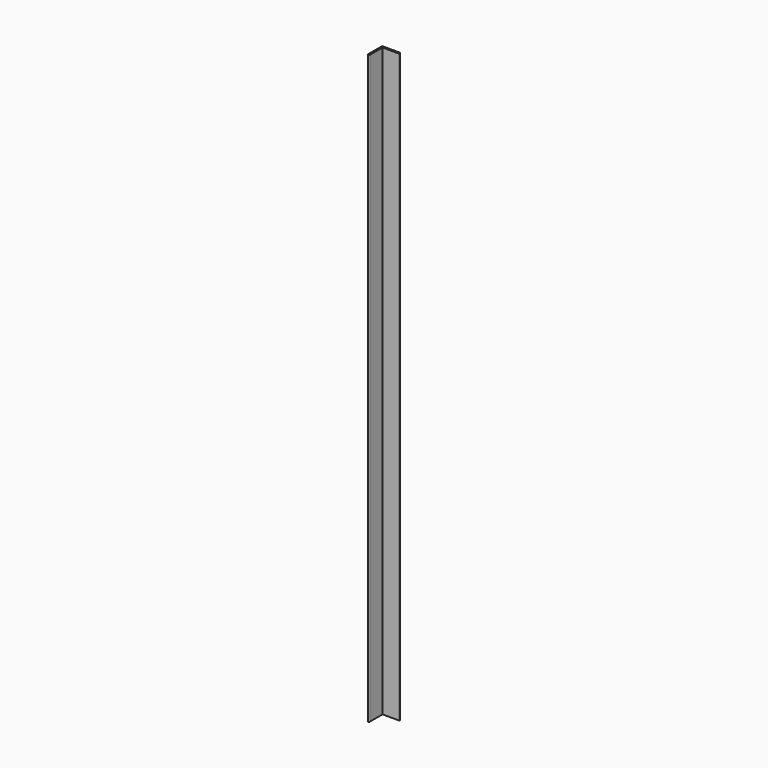
from build123d import *

# Parameters (mm, degrees)
PAD_DEPTH = 1000


with BuildPart() as part:
    # Sketch → Pad (new body)
    with BuildSketch(Plane.XY):
        with BuildLine():
            Line((-2.465191, -27.814957), (-2.465191, 2.185043))
            Line((-2.465191, 2.185043), (27.534809, 2.185043))
            ThreePointArc((27.534809, -0.814957), (29.034809, 0.685043), (27.534809, 2.185043))
            Line((0.534809, -0.814957), (27.534809, -0.814957))
            Line((0.534809, -27.814957), (0.534809, -0.814957))
            ThreePointArc((-2.465191, -27.814957), (-0.965191, -29.314957), (0.534809, -27.814957))
        make_face()
    extrude(amount=PAD_DEPTH)


solid = part.part
